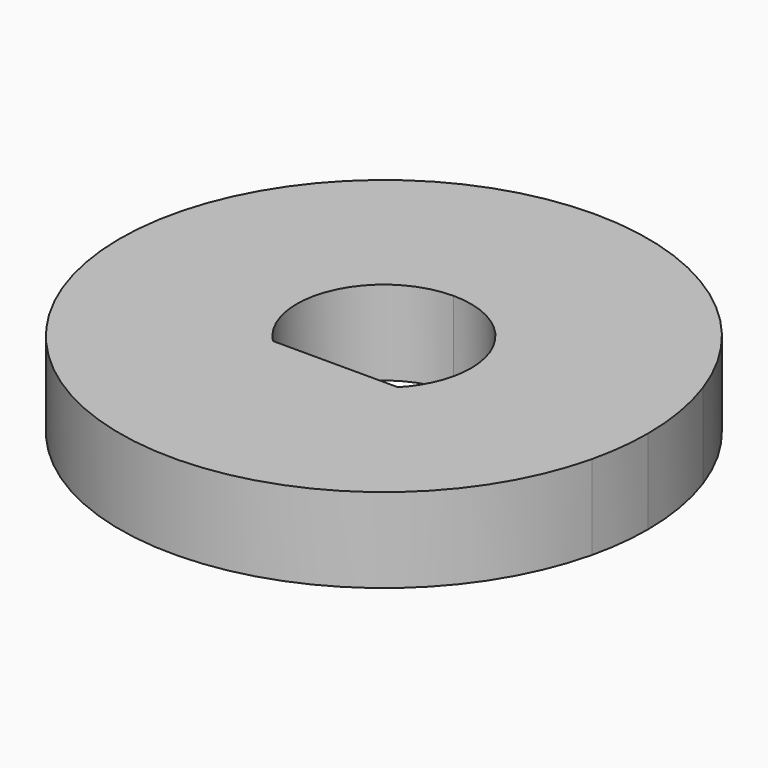
from build123d import *

# Parameters (mm, degrees)
F1_DEPTH = 4.064


with BuildPart() as f1:
    # F0 (on Top) → F1 (new body)
    with BuildSketch(Plane.XY):
        with BuildLine():
            ThreePointArc((-3.0053685298, -2.921), (-3.860465775, 1.6313445375), (0, 4.191))
            Line((0, 4.191), (11.9885578365, 4.191))
            ThreePointArc((11.9885578365, 4.191), (-12.6827588318, -0.6615348929), (12.3595209859, -2.921))
            Line((12.3595209859, -2.921), (3.0053685298, -2.921))
            ThreePointArc((3.0053685298, -2.921), (0, -4.191), (-3.0053685298, -2.921))
        make_face()
        with BuildLine():
            ThreePointArc((0, 4.191), (2.96348452, 2.96348452), (4.191, 0))
            ThreePointArc((4.191, 0), (3.883296313, -1.5762267431), (3.0053685298, -2.921))
            Line((3.0053685298, -2.921), (12.3595209859, -2.921))
            ThreePointArc((12.3595209859, -2.921), (12.6145930676, -1.4703882956), (12.7, 0))
            ThreePointArc((12.7, 0), (12.5208762578, 2.1254782375), (11.9885578365, 4.191))
            Line((11.9885578365, 4.191), (0, 4.191))
        make_face()
        with BuildLine():
            ThreePointArc((-3.0053685298, -2.921), (0, -4.191), (3.0053685298, -2.921))
            Line((3.0053685298, -2.921), (-3.0053685298, -2.921))
        make_face()
    extrude(amount=F1_DEPTH)


solid = f1.part
